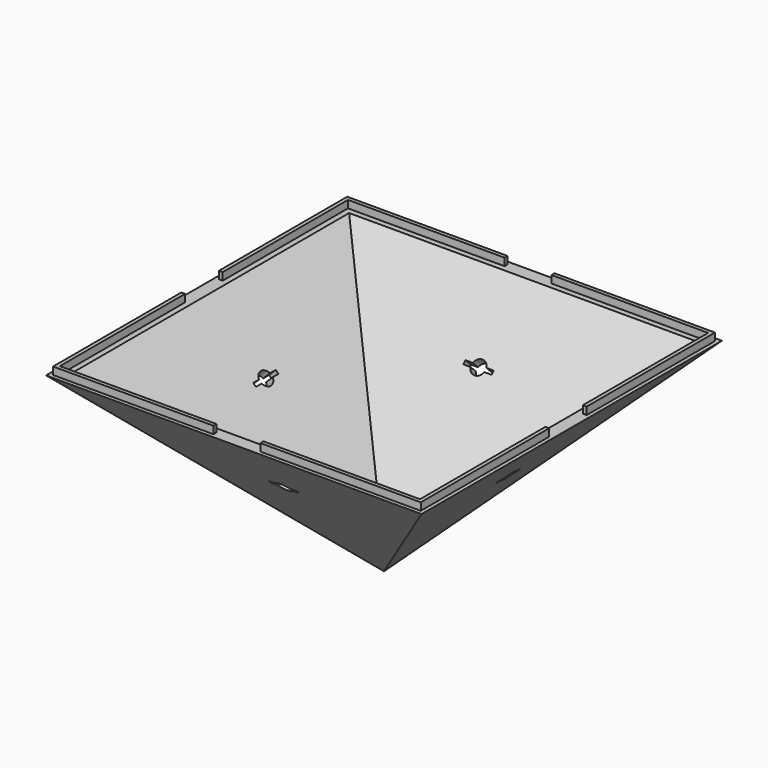
from build123d import *

# Parameters (mm, degrees)
F0_W      = 400
F0_H      = 400
F3_T      = -10
F4_W      = 391.7157287525
F4_H      = 391.7157287525
F4_W_2    = 383.7157287525
F4_H_2    = 383.7157287525
F5_DEPTH  = 8
F10_DEPTH = 288.5005667948
F11_DEPTH = 288.5005667948
F12_DEPTH = 288.5005667948
F13_DEPTH = 288.5005667948
F14_W     = 25
F14_H     = 8
F15_DEPTH = 395.8588644763
F16_W     = 25
F16_H     = 8
F17_DEPTH = 395.8588644763


with BuildPart() as f2:
    # F0 (on Top) → F2 section 0
    with BuildSketch(Plane.XY, mode=Mode.PRIVATE) as f2_s0:
        Rectangle(F0_W, F0_H)
    loft([f2_s0.sketch, Vertex(0, 0, -200)])

    # F3
    f3_openings = [f2.faces().sort_by_distance(p)[0] for p in [
        (0, 0, 0),
    ]]
    offset(amount=F3_T, openings=f3_openings)

    # F4 (on face) → F5 (join)
    with BuildSketch(Plane.XY):
        Rectangle(F4_W, F4_H)
        Rectangle(F4_W_2, F4_H_2, mode=Mode.SUBTRACT)
    extrude(amount=F5_DEPTH)

    # F6 (on face) → F10 (cut, through all)
    with BuildSketch(Plane(origin=(0, -100, -100), x_dir=(1, 0, 0), z_dir=(0, -0.7071067812, -0.7071067812))):
        with BuildLine():
            ThreePointArc((-7.2284161474, 44.5786437627), (-4.5414755311, 40.6099755695), (0, 39.0786437627))
            Line((0, 39.0786437627), (0, 44.5786437627))
            Line((0, 44.5786437627), (-7.2284161474, 44.5786437627))
        make_face()
        with BuildLine():
            Line((0, 44.5786437627), (0, 39.0786437627))
            ThreePointArc((0, 39.0786437627), (4.5414755311, 40.6099755695), (7.2284161474, 44.5786437627))
            Line((7.2284161474, 44.5786437627), (0, 44.5786437627))
        make_face()
        with BuildLine():
            Line((-7.2284161474, 44.5786437627), (0, 44.5786437627))
            Line((0, 44.5786437627), (0, 46.5786437627))
            Line((0, 46.5786437627), (7.5, 46.5786437627))
            ThreePointArc((7.5, 46.5786437627), (7.4317938987, 47.5878213721), (7.2284161474, 48.5786437627))
            Line((7.2284161474, 48.5786437627), (-7.2284161474, 48.5786437627))
            ThreePointArc((-7.2284161474, 48.5786437627), (-7.5, 46.5786437627), (-7.2284161474, 44.5786437627))
        make_face()
        with BuildLine():
            Line((0, 46.5786437627), (0, 44.5786437627))
            Line((0, 44.5786437627), (7.2284161474, 44.5786437627))
            ThreePointArc((7.2284161474, 44.5786437627), (7.4317938987, 45.5694661533), (7.5, 46.5786437627))
            Line((7.5, 46.5786437627), (0, 46.5786437627))
        make_face()
        with BuildLine():
            Line((-15, 44.5786437627), (-7.2284161474, 44.5786437627))
            ThreePointArc((-7.2284161474, 44.5786437627), (-7.5, 46.5786437627), (-7.2284161474, 48.5786437627))
            Line((-7.2284161474, 48.5786437627), (-15, 48.5786437627))
            Line((-15, 48.5786437627), (-15, 44.5786437627))
        make_face()
        with BuildLine():
            ThreePointArc((7.5, 46.5786437627), (7.4317938987, 45.5694661533), (7.2284161474, 44.5786437627))
            Line((7.2284161474, 44.5786437627), (15, 44.5786437627))
            Line((15, 44.5786437627), (15, 48.5786437627))
            Line((15, 48.5786437627), (7.2284161474, 48.5786437627))
            ThreePointArc((7.2284161474, 48.5786437627), (7.4317938987, 47.5878213721), (7.5, 46.5786437627))
        make_face()
        with BuildLine():
            ThreePointArc((7.2284161474, 48.5786437627), (0, 54.0786437627), (-7.2284161474, 48.5786437627))
            Line((-7.2284161474, 48.5786437627), (7.2284161474, 48.5786437627))
        make_face()
    extrude(amount=-F10_DEPTH, mode=Mode.SUBTRACT)

    # F7 (on face) → F11 (cut, through all)
    with BuildSketch(Plane(origin=(100, 0, -100), x_dir=(0, 1, 0), z_dir=(0.7071067812, 0, -0.7071067812))):
        with BuildLine():
            ThreePointArc((-7.2284161474, 44.5786437627), (-4.5414755311, 40.6099755695), (0, 39.0786437627))
            Line((0, 39.0786437627), (0, 44.5786437627))
            Line((0, 44.5786437627), (-7.2284161474, 44.5786437627))
        make_face()
        with BuildLine():
            Line((0, 44.5786437627), (0, 39.0786437627))
            ThreePointArc((0, 39.0786437627), (4.5414755311, 40.6099755695), (7.2284161474, 44.5786437627))
            Line((7.2284161474, 44.5786437627), (0, 44.5786437627))
        make_face()
        with BuildLine():
            Line((-7.2284161474, 44.5786437627), (0, 44.5786437627))
            Line((0, 44.5786437627), (0, 46.5786437627))
            Line((0, 46.5786437627), (7.5, 46.5786437627))
            ThreePointArc((7.5, 46.5786437627), (7.4317938987, 47.5878213721), (7.2284161474, 48.5786437627))
            Line((7.2284161474, 48.5786437627), (-7.2284161474, 48.5786437627))
            ThreePointArc((-7.2284161474, 48.5786437627), (-7.5, 46.5786437627), (-7.2284161474, 44.5786437627))
        make_face()
        with BuildLine():
            Line((0, 46.5786437627), (0, 44.5786437627))
            Line((0, 44.5786437627), (7.2284161474, 44.5786437627))
            ThreePointArc((7.2284161474, 44.5786437627), (7.4317938987, 45.5694661533), (7.5, 46.5786437627))
            Line((7.5, 46.5786437627), (0, 46.5786437627))
        make_face()
        with BuildLine():
            Line((-15, 44.5786437627), (-7.2284161474, 44.5786437627))
            ThreePointArc((-7.2284161474, 44.5786437627), (-7.5, 46.5786437627), (-7.2284161474, 48.5786437627))
            Line((-7.2284161474, 48.5786437627), (-15, 48.5786437627))
            Line((-15, 48.5786437627), (-15, 44.5786437627))
        make_face()
        with BuildLine():
            ThreePointArc((7.5, 46.5786437627), (7.4317938987, 45.5694661533), (7.2284161474, 44.5786437627))
            Line((7.2284161474, 44.5786437627), (15, 44.5786437627))
            Line((15, 44.5786437627), (15, 48.5786437627))
            Line((15, 48.5786437627), (7.2284161474, 48.5786437627))
            ThreePointArc((7.2284161474, 48.5786437627), (7.4317938987, 47.5878213721), (7.5, 46.5786437627))
        make_face()
        with BuildLine():
            ThreePointArc((7.2284161474, 48.5786437627), (0, 54.0786437627), (-7.2284161474, 48.5786437627))
            Line((-7.2284161474, 48.5786437627), (7.2284161474, 48.5786437627))
        make_face()
    extrude(amount=-F11_DEPTH, mode=Mode.SUBTRACT)

    # F8 (on face) → F12 (cut, through all)
    with BuildSketch(Plane(origin=(0, 100, -100), x_dir=(-1, 0, 0), z_dir=(0, 0.7071067812, -0.7071067812))):
        with BuildLine():
            ThreePointArc((-7.2284161474, 44.5786437627), (-4.5414755311, 40.6099755695), (0, 39.0786437627))
            Line((0, 39.0786437627), (0, 44.5786437627))
            Line((0, 44.5786437627), (-7.2284161474, 44.5786437627))
        make_face()
        with BuildLine():
            Line((0, 44.5786437627), (0, 39.0786437627))
            ThreePointArc((0, 39.0786437627), (4.5414755311, 40.6099755695), (7.2284161474, 44.5786437627))
            Line((7.2284161474, 44.5786437627), (0, 44.5786437627))
        make_face()
        with BuildLine():
            Line((-7.2284161474, 44.5786437627), (0, 44.5786437627))
            Line((0, 44.5786437627), (0, 46.5786437627))
            Line((0, 46.5786437627), (7.5, 46.5786437627))
            ThreePointArc((7.5, 46.5786437627), (7.4317938987, 47.5878213721), (7.2284161474, 48.5786437627))
            Line((7.2284161474, 48.5786437627), (-7.2284161474, 48.5786437627))
            ThreePointArc((-7.2284161474, 48.5786437627), (-7.5, 46.5786437627), (-7.2284161474, 44.5786437627))
        make_face()
        with BuildLine():
            Line((0, 46.5786437627), (0, 44.5786437627))
            Line((0, 44.5786437627), (7.2284161474, 44.5786437627))
            ThreePointArc((7.2284161474, 44.5786437627), (7.4317938987, 45.5694661533), (7.5, 46.5786437627))
            Line((7.5, 46.5786437627), (0, 46.5786437627))
        make_face()
        with BuildLine():
            Line((-15, 44.5786437627), (-7.2284161474, 44.5786437627))
            ThreePointArc((-7.2284161474, 44.5786437627), (-7.5, 46.5786437627), (-7.2284161474, 48.5786437627))
            Line((-7.2284161474, 48.5786437627), (-15, 48.5786437627))
            Line((-15, 48.5786437627), (-15, 44.5786437627))
        make_face()
        with BuildLine():
            ThreePointArc((7.5, 46.5786437627), (7.4317938987, 45.5694661533), (7.2284161474, 44.5786437627))
            Line((7.2284161474, 44.5786437627), (15, 44.5786437627))
            Line((15, 44.5786437627), (15, 48.5786437627))
            Line((15, 48.5786437627), (7.2284161474, 48.5786437627))
            ThreePointArc((7.2284161474, 48.5786437627), (7.4317938987, 47.5878213721), (7.5, 46.5786437627))
        make_face()
        with BuildLine():
            ThreePointArc((7.2284161474, 48.5786437627), (0, 54.0786437627), (-7.2284161474, 48.5786437627))
            Line((-7.2284161474, 48.5786437627), (7.2284161474, 48.5786437627))
        make_face()
    extrude(amount=-F12_DEPTH, mode=Mode.SUBTRACT)

    # F9 (on face) → F13 (cut, through all)
    with BuildSketch(Plane(origin=(-100, 0, -100), x_dir=(0.7071067812, 0, -0.7071067812), z_dir=(-0.7071067812, 0, -0.7071067812))):
        with BuildLine():
            ThreePointArc((-44.5786437627, -7.2284161474), (-40.6099755695, -4.5414755311), (-39.0786437627, 0))
            Line((-39.0786437627, 0), (-44.5786437627, 0))
            Line((-44.5786437627, 0), (-44.5786437627, -7.2284161474))
        make_face()
        with BuildLine():
            Line((-44.5786437627, 0), (-39.0786437627, 0))
            ThreePointArc((-39.0786437627, 0), (-40.6099755695, 4.5414755311), (-44.5786437627, 7.2284161474))
            Line((-44.5786437627, 7.2284161474), (-44.5786437627, 0))
        make_face()
        with BuildLine():
            Line((-44.5786437627, -7.2284161474), (-44.5786437627, 0))
            Line((-44.5786437627, 0), (-44.5786437627, 7.2284161474))
            ThreePointArc((-44.5786437627, 7.2284161474), (-46.5786437627, 7.5), (-48.5786437627, 7.2284161474))
            Line((-48.5786437627, 7.2284161474), (-48.5786437627, -7.2284161474))
            ThreePointArc((-48.5786437627, -7.2284161474), (-46.5786437627, -7.5), (-44.5786437627, -7.2284161474))
        make_face()
        with BuildLine():
            ThreePointArc((-48.5786437627, 7.2284161474), (-46.5786437627, 7.5), (-44.5786437627, 7.2284161474))
            Line((-44.5786437627, 7.2284161474), (-44.5786437627, 15))
            Line((-44.5786437627, 15), (-48.5786437627, 15))
            Line((-48.5786437627, 15), (-48.5786437627, 7.2284161474))
        make_face()
        with BuildLine():
            Line((-44.5786437627, -15), (-44.5786437627, -7.2284161474))
            ThreePointArc((-44.5786437627, -7.2284161474), (-46.5786437627, -7.5), (-48.5786437627, -7.2284161474))
            Line((-48.5786437627, -7.2284161474), (-48.5786437627, -15))
            Line((-48.5786437627, -15), (-44.5786437627, -15))
        make_face()
        with BuildLine():
            Line((-48.5786437627, -7.2284161474), (-48.5786437627, 7.2284161474))
            ThreePointArc((-48.5786437627, 7.2284161474), (-54.0786437627, 0), (-48.5786437627, -7.2284161474))
        make_face()
    extrude(amount=-F13_DEPTH, mode=Mode.SUBTRACT)

    # F14 (on face) → F15 (cut, through all)
    with BuildSketch(Plane.XZ.offset(195.8578643763)):
        with Locations((-12.5, 4)):
            Rectangle(F14_W, F14_H)
        with Locations((12.5, 4)):
            Rectangle(F14_W, F14_H)
    extrude(amount=-F15_DEPTH, mode=Mode.SUBTRACT)

    # F16 (on face) → F17 (cut, through all)
    with BuildSketch(Plane(origin=(-195.8578643763, 0, 0), x_dir=(0, -1, 0), z_dir=(-1, 0, 0))):
        with Locations((-12.5, 4)):
            Rectangle(F16_W, F16_H)
        with Locations((12.5, 4)):
            Rectangle(F16_W, F16_H)
    extrude(amount=-F17_DEPTH, mode=Mode.SUBTRACT)


solid = f2.part
